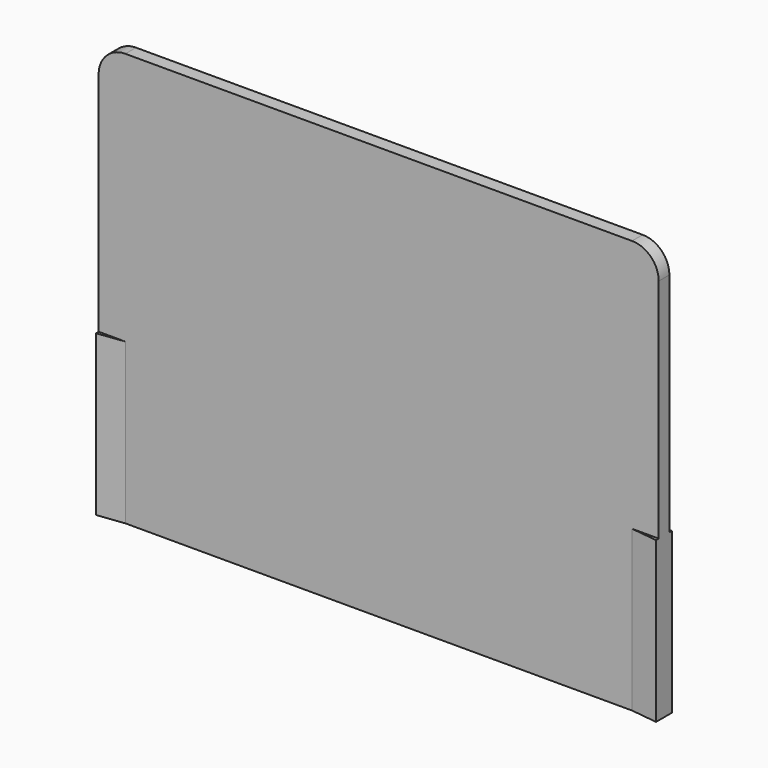
from build123d import *

# Parameters (mm, degrees)
F2_DEPTH = 31
F3_DEPTH = 12
F4_R     = 2


with BuildPart() as f2:
    # F1 (on Top) → F2 (new body)
    with BuildSketch(Plane.XY):
        Polygon((-19, 0.5), (-21, 0.5), (-21, -0.5), (-19, -0.5), (19, -0.5), (21, -0.5), (21, 0.5), (19, 0.5), align=None)
    extrude(amount=F2_DEPTH)

    # F1 (on Top) → F3 (join)
    with BuildSketch(Plane.XY):
        Polygon((-21, 0.75), (-21, 0.5), (-19, 0.5), align=None)
        Polygon((-19, -0.5), (-21, -0.5), (-21, -0.75), align=None)
        Polygon((21, 0.75), (19, 0.5), (21, 0.5), align=None)
        Polygon((21, -0.5), (19, -0.5), (21, -0.75), align=None)
    extrude(amount=F3_DEPTH)

    # F4
    f4_edges = [f2.edges().sort_by_distance(p)[0] for p in [
        (-21, 0, 31),
        (21, 0, 31),
    ]]
    fillet(f4_edges, radius=F4_R)


solid = f2.part
